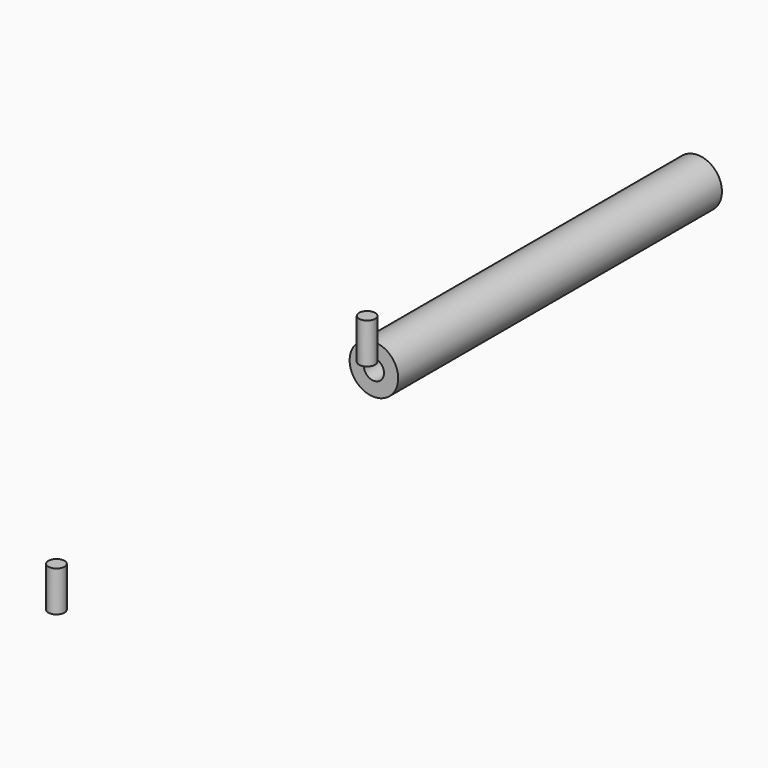
from build123d import *

# Parameters (mm, degrees)
F0_R     = 60
F0_R_2   = 25
F1_DEPTH = 1000
F3_START = 25
F2_R     = 20
F3_DEPTH = 100
F5_START = -25
F4_R     = 20
F5_DEPTH = 100


with BuildPart() as f1:
    # F0 (on Front) → F1 (new body)
    with BuildSketch(Plane.XZ):
        Circle(F0_R)
        Circle(F0_R_2, mode=Mode.SUBTRACT)
    extrude(amount=-F1_DEPTH)


with BuildPart() as f3:
    # F2 (on Top) → F3 (new body)
    with BuildSketch(Plane.XY.offset(F3_START)):
        with Locations((-0.0518769739, -20.9285784513)):
            Circle(F2_R)
    extrude(amount=F3_DEPTH)


with BuildPart() as f5:
    # F4 (on Top) → F5 (new body)
    with BuildSketch(Plane.XY.offset(F5_START)):
        with Locations((-0.8460676181, -979.5722365379)):
            Circle(F4_R)
    extrude(amount=-F5_DEPTH)


solid = Compound([f1.part, f3.part, f5.part])
